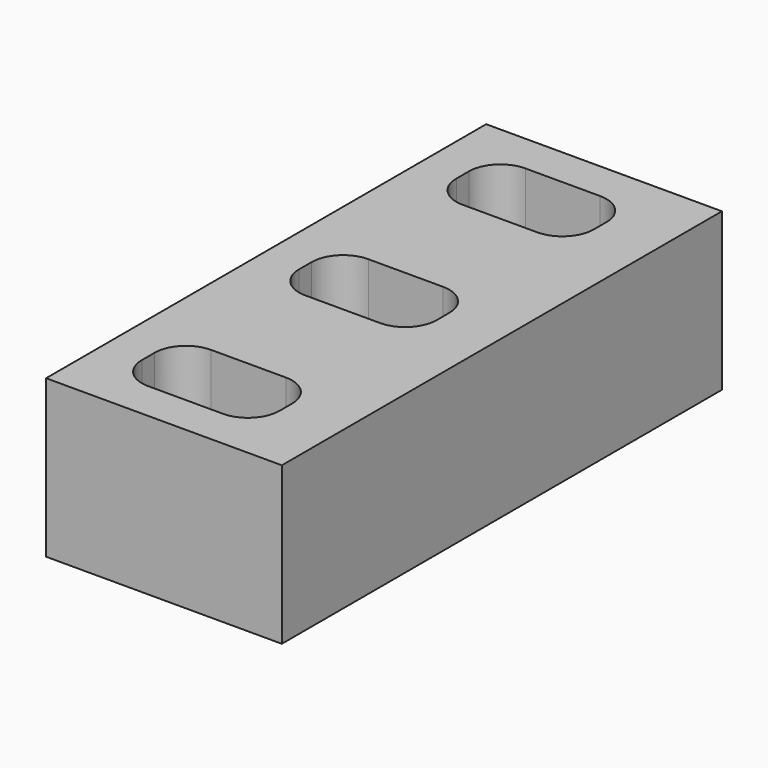
from build123d import *

# Parameters (mm, degrees)
F0_W     = 19.05
F0_H     = 44.45
F1_DEPTH = 12.7


with BuildPart() as f1:
    # F0 (on Top) → F1 (new body)
    with BuildSketch(Plane.XY):
        with Locations((0, -22.225)):
            Rectangle(F0_W, F0_H)
        with BuildLine():
            ThreePointArc((-6.35, -37.465), (-5.606051, -35.668949), (-3.81, -34.925))
            Line((-3.81, -34.925), (2.2225, -34.925))
            ThreePointArc((2.2225, -34.925), (4.018551, -35.668949), (4.7625, -37.465))
            Line((4.7625, -37.465), (4.7625, -38.735))
            ThreePointArc((4.7625, -38.735), (4.018551, -40.531051), (2.2225, -41.275))
            Line((2.2225, -41.275), (-3.81, -41.275))
            ThreePointArc((-3.81, -41.275), (-5.606051, -40.531051), (-6.35, -38.735))
            Line((-6.35, -38.735), (-6.35, -37.465))
        make_face(mode=Mode.SUBTRACT)
        with BuildLine():
            ThreePointArc((-6.35, -21.59), (-5.606051, -19.793949), (-3.81, -19.05))
            Line((-3.81, -19.05), (2.2225, -19.05))
            ThreePointArc((2.2225, -19.05), (4.018551, -19.793949), (4.7625, -21.59))
            Line((4.7625, -21.59), (4.7625, -22.86))
            ThreePointArc((4.7625, -22.86), (4.018551, -24.656051), (2.2225, -25.4))
            Line((2.2225, -25.4), (-3.81, -25.4))
            ThreePointArc((-3.81, -25.4), (-5.606051, -24.656051), (-6.35, -22.86))
            Line((-6.35, -22.86), (-6.35, -21.59))
        make_face(mode=Mode.SUBTRACT)
        with BuildLine():
            ThreePointArc((-6.35, -5.715), (-5.606051, -3.918949), (-3.81, -3.175))
            Line((-3.81, -3.175), (2.2225, -3.175))
            ThreePointArc((2.2225, -3.175), (4.018551, -3.918949), (4.7625, -5.715))
            Line((4.7625, -5.715), (4.7625, -6.985))
            ThreePointArc((4.7625, -6.985), (4.018551, -8.781051), (2.2225, -9.525))
            Line((2.2225, -9.525), (-3.81, -9.525))
            ThreePointArc((-3.81, -9.525), (-5.606051, -8.781051), (-6.35, -6.985))
            Line((-6.35, -6.985), (-6.35, -5.715))
        make_face(mode=Mode.SUBTRACT)
    extrude(amount=F1_DEPTH)


solid = f1.part
